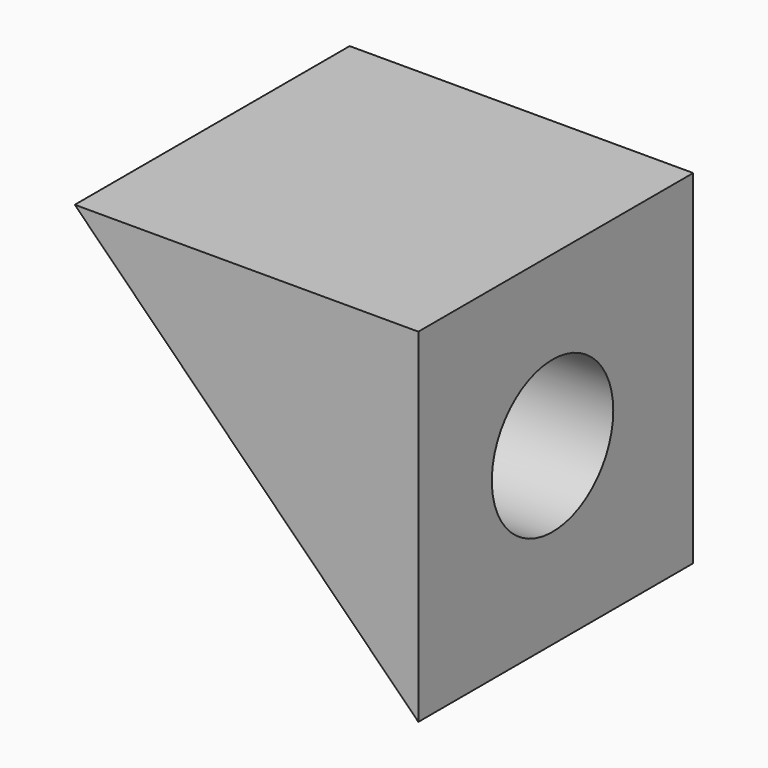
from build123d import *

# Parameters (mm, degrees)
F1_DEPTH = 43.688
F2_R     = 9.652
F3_DEPTH = 43.689


with BuildPart() as f1:
    # F0 (on Front) → F1 (new body)
    with BuildSketch(Plane.XZ):
        Polygon((0, 0), (0, 43.688), (-43.688, 43.688), align=None)
    extrude(amount=F1_DEPTH)

    # F2 (on Right) → F3 (cut, through all)
    with BuildSketch(Plane.YZ):
        with Locations((-22.360317, 22.249874)):
            Circle(F2_R)
    extrude(amount=-F3_DEPTH, mode=Mode.SUBTRACT)


solid = f1.part
